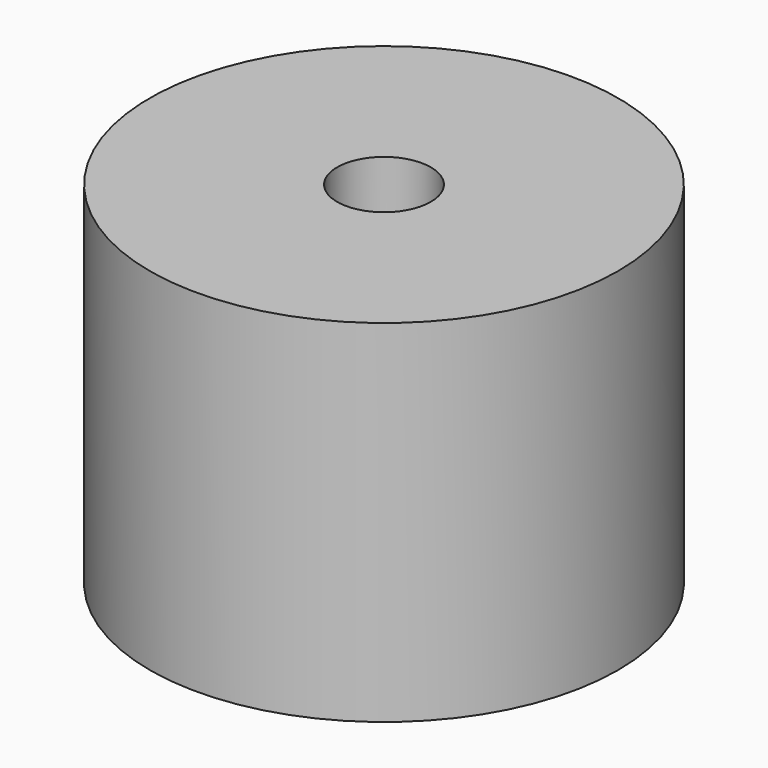
from build123d import *

# Parameters (mm, degrees)
CYLINDER033_R                = 2
CYLINDER033_DEPTH            = 5
TUBE_R                       = 9
TUBE_R_2                     = 3.85
TUBE_DEPTH                   = 1
CYLINDER032_R                = 10
CYLINDER032_DEPTH            = 15
CUT002002004_PLACEMENT_ANGLE = 180


with BuildPart() as cylinder033:
    # Cylinder033 → Cylinder033 (new body)
    with BuildSketch(Plane.XY):
        Circle(CYLINDER033_R)
    extrude(amount=CYLINDER033_DEPTH)


with BuildPart() as fusion014:
    # Tube → Tube (new body)
    with BuildSketch(Plane.XY.offset(14)):
        Circle(TUBE_R)
        Circle(TUBE_R_2, mode=Mode.SUBTRACT)
    extrude(amount=TUBE_DEPTH)

    # Fusion014: union Cylinder033
    add(cylinder033.part)


with BuildPart() as electromagnet:
    # Cylinder032 → Cylinder032 (new body)
    with BuildSketch(Plane.XY):
        Circle(CYLINDER032_R)
    extrude(amount=CYLINDER032_DEPTH)

    # Cut002002004: cut Fusion014
    add(fusion014.part, mode=Mode.SUBTRACT)


with BuildPart() as electromagnet_1:
    # Cut002002004 placement: moved
    add(electromagnet.part.moved(Location((-60, 15, -15))).rotate(Axis((-60, 15, -15), (1, 0, 0)), CUT002002004_PLACEMENT_ANGLE))


solid = electromagnet_1.part
